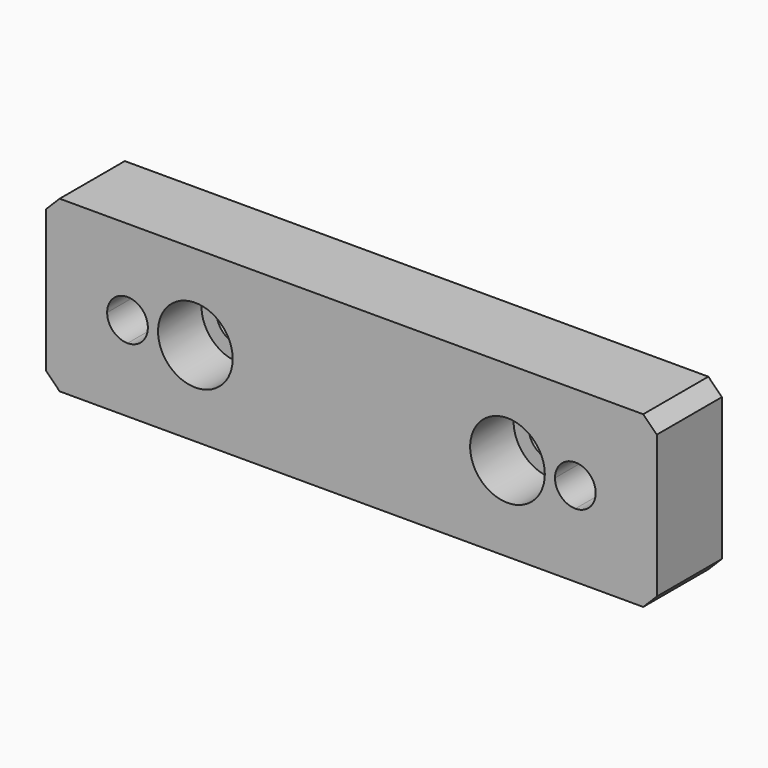
from build123d import *

# Parameters (mm, degrees)
F1_DEPTH       = 12
F2_D           = 6.6
F2_CBORE_D     = 11
F2_CBORE_DEPTH = 8


with BuildPart() as f1:
    # F0 (on Front) → F1 (new body)
    with BuildSketch(Plane.XZ):
        Polygon((90.149039, -88.28956), (88.149039, -90.28956), (88.149039, -111.28956), (90.149039, -113.28956), (176.149039, -113.28956), (178.149039, -111.28956), (178.149039, -90.28956), (176.149039, -88.28956), align=None)
        with BuildLine():
            ThreePointArc((100.149039, -97.78956), (102.2703593436, -98.6682396564), (103.149039, -100.78956))
            ThreePointArc((103.149039, -100.78956), (102.2703593436, -102.9108803436), (100.149039, -103.78956))
            ThreePointArc((100.149039, -103.78956), (98.0277186564, -102.9108803436), (97.149039, -100.78956))
            ThreePointArc((97.149039, -100.78956), (98.0277186564, -98.6682396564), (100.149039, -97.78956))
        make_face(mode=Mode.SUBTRACT)
        with BuildLine():
            ThreePointArc((110.149039, -106.28956), (106.2599517035, -104.6786472965), (104.649039, -100.78956))
            ThreePointArc((104.649039, -100.78956), (106.2599517035, -96.9004727035), (110.149039, -95.28956))
            ThreePointArc((110.149039, -95.28956), (114.0381262965, -96.9004727035), (115.649039, -100.78956))
            ThreePointArc((115.649039, -100.78956), (114.0381262965, -104.6786472965), (110.149039, -106.28956))
        make_face(mode=Mode.SUBTRACT)
        with BuildLine():
            ThreePointArc((156.149039, -95.28956), (160.0381262965, -96.9004727035), (161.649039, -100.78956))
            ThreePointArc((161.649039, -100.78956), (160.0381262965, -104.6786472965), (156.149039, -106.28956))
            ThreePointArc((156.149039, -106.28956), (152.2599517035, -104.6786472965), (150.649039, -100.78956))
            ThreePointArc((150.649039, -100.78956), (152.2599517035, -96.9004727035), (156.149039, -95.28956))
        make_face(mode=Mode.SUBTRACT)
        with BuildLine():
            ThreePointArc((166.149039, -97.78956), (168.2703593436, -98.6682396564), (169.149039, -100.78956))
            ThreePointArc((169.149039, -100.78956), (168.2703593436, -102.9108803436), (166.149039, -103.78956))
            ThreePointArc((166.149039, -103.78956), (164.0277186564, -102.9108803436), (163.149039, -100.78956))
            ThreePointArc((163.149039, -100.78956), (164.0277186564, -98.6682396564), (166.149039, -97.78956))
        make_face(mode=Mode.SUBTRACT)
        with BuildLine():
            Line((159.449039, -100.78956), (161.649039, -100.78956))
            ThreePointArc((161.649039, -100.78956), (160.0381262965, -96.9004727035), (156.149039, -95.28956))
            Line((156.149039, -95.28956), (156.149039, -97.48956))
            ThreePointArc((156.149039, -97.48956), (158.4824913779, -98.4561076221), (159.449039, -100.78956))
        make_face()
        with BuildLine():
            Line((156.149039, -97.48956), (156.149039, -95.28956))
            ThreePointArc((156.149039, -95.28956), (152.2599517035, -96.9004727035), (150.649039, -100.78956))
            Line((150.649039, -100.78956), (152.849039, -100.78956))
            ThreePointArc((152.849039, -100.78956), (153.8155866221, -98.4561076221), (156.149039, -97.48956))
        make_face()
        with BuildLine():
            ThreePointArc((156.149039, -106.28956), (160.0381262965, -104.6786472965), (161.649039, -100.78956))
            Line((161.649039, -100.78956), (159.449039, -100.78956))
            ThreePointArc((159.449039, -100.78956), (158.4824913779, -103.1230123779), (156.149039, -104.08956))
            Line((156.149039, -104.08956), (156.149039, -106.28956))
        make_face()
        with BuildLine():
            Line((156.149039, -100.78956), (159.449039, -100.78956))
            ThreePointArc((159.449039, -100.78956), (158.4824913779, -98.4561076221), (156.149039, -97.48956))
            Line((156.149039, -97.48956), (156.149039, -100.78956))
        make_face()
        with BuildLine():
            ThreePointArc((156.149039, -104.08956), (158.4824913779, -103.1230123779), (159.449039, -100.78956))
            Line((159.449039, -100.78956), (156.149039, -100.78956))
            Line((156.149039, -100.78956), (156.149039, -104.08956))
        make_face()
        with BuildLine():
            Line((152.849039, -100.78956), (156.149039, -100.78956))
            Line((156.149039, -100.78956), (156.149039, -97.48956))
            ThreePointArc((156.149039, -97.48956), (153.8155866221, -98.4561076221), (152.849039, -100.78956))
        make_face()
        with BuildLine():
            Line((156.149039, -104.08956), (156.149039, -100.78956))
            Line((156.149039, -100.78956), (152.849039, -100.78956))
            ThreePointArc((152.849039, -100.78956), (153.8155866221, -103.1230123779), (156.149039, -104.08956))
        make_face()
        with BuildLine():
            ThreePointArc((150.649039, -100.78956), (152.2599517035, -104.6786472965), (156.149039, -106.28956))
            Line((156.149039, -106.28956), (156.149039, -104.08956))
            ThreePointArc((156.149039, -104.08956), (153.8155866221, -103.1230123779), (152.849039, -100.78956))
            Line((152.849039, -100.78956), (150.649039, -100.78956))
        make_face()
        with BuildLine():
            Line((110.149039, -97.48956), (110.149039, -100.78956))
            Line((110.149039, -100.78956), (113.449039, -100.78956))
            ThreePointArc((113.449039, -100.78956), (112.4824913779, -98.4561076221), (110.149039, -97.48956))
        make_face()
        with BuildLine():
            Line((110.149039, -104.08956), (110.149039, -106.28956))
            ThreePointArc((110.149039, -106.28956), (114.0381262965, -104.6786472965), (115.649039, -100.78956))
            Line((115.649039, -100.78956), (113.449039, -100.78956))
            ThreePointArc((113.449039, -100.78956), (112.4824913779, -103.1230123779), (110.149039, -104.08956))
        make_face()
        with BuildLine():
            Line((113.449039, -100.78956), (110.149039, -100.78956))
            Line((110.149039, -100.78956), (110.149039, -104.08956))
            ThreePointArc((110.149039, -104.08956), (112.4824913779, -103.1230123779), (113.449039, -100.78956))
        make_face()
        with BuildLine():
            ThreePointArc((115.649039, -100.78956), (114.0381262965, -96.9004727035), (110.149039, -95.28956))
            Line((110.149039, -95.28956), (110.149039, -97.48956))
            ThreePointArc((110.149039, -97.48956), (112.4824913779, -98.4561076221), (113.449039, -100.78956))
            Line((113.449039, -100.78956), (115.649039, -100.78956))
        make_face()
        with BuildLine():
            Line((110.149039, -100.78956), (106.849039, -100.78956))
            ThreePointArc((106.849039, -100.78956), (107.8155866221, -103.1230123779), (110.149039, -104.08956))
            Line((110.149039, -104.08956), (110.149039, -100.78956))
        make_face()
        with BuildLine():
            Line((106.849039, -100.78956), (104.649039, -100.78956))
            ThreePointArc((104.649039, -100.78956), (106.2599517035, -104.6786472965), (110.149039, -106.28956))
            Line((110.149039, -106.28956), (110.149039, -104.08956))
            ThreePointArc((110.149039, -104.08956), (107.8155866221, -103.1230123779), (106.849039, -100.78956))
        make_face()
        with BuildLine():
            ThreePointArc((110.149039, -97.48956), (107.8155866221, -98.4561076221), (106.849039, -100.78956))
            Line((106.849039, -100.78956), (110.149039, -100.78956))
            Line((110.149039, -100.78956), (110.149039, -97.48956))
        make_face()
        with BuildLine():
            ThreePointArc((110.149039, -95.28956), (106.2599517035, -96.9004727035), (104.649039, -100.78956))
            Line((104.649039, -100.78956), (106.849039, -100.78956))
            ThreePointArc((106.849039, -100.78956), (107.8155866221, -98.4561076221), (110.149039, -97.48956))
            Line((110.149039, -97.48956), (110.149039, -95.28956))
        make_face()
    extrude(amount=-F1_DEPTH)

    # F2 (through all)
    with Locations(Plane.XZ):
        with Locations((156.149039, -100.78956), (110.149039, -100.78956)):
            CounterBoreHole(F2_D / 2, F2_CBORE_D / 2, F2_CBORE_DEPTH)


solid = f1.part
